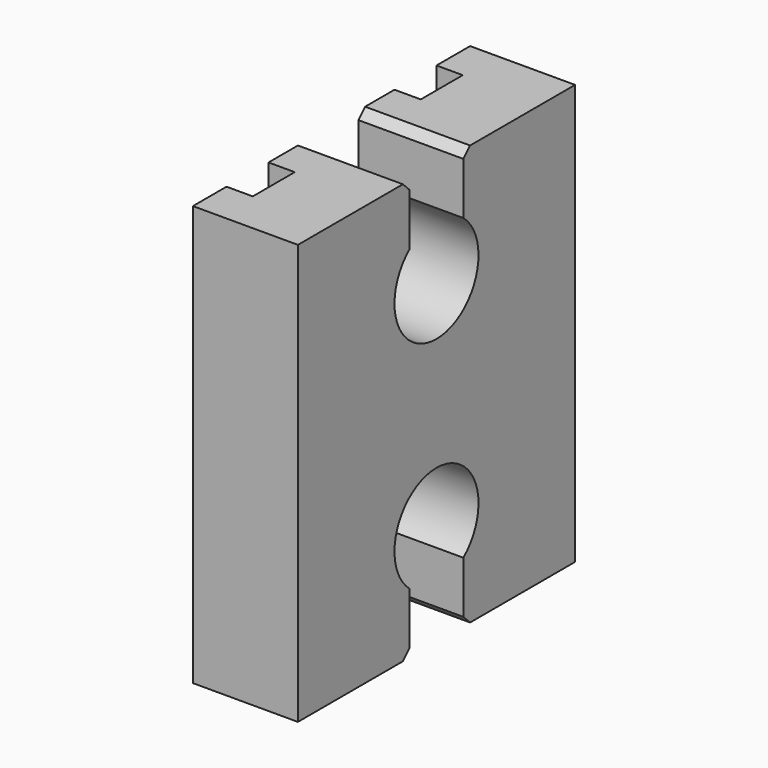
from build123d import *

# Parameters (mm, degrees)
F1_DEPTH = 50.8
F3_DEPTH = 25.4
F7_SIZE  = 1.016


with BuildPart() as f1:
    # F0 (on Top) → F1 (new body)
    with BuildSketch(Plane.XY):
        Polygon((-12.7, -15.875), (-12.7, -20.955), (0, -20.955), (0, 20.955), (-12.7, 20.955), (-12.7, 15.875), (-9.525, 15.875), (-9.525, 9.525), (-12.7, 9.525), (-12.7, -9.525), (-9.525, -9.525), (-9.525, -15.875), align=None)
    extrude(amount=F1_DEPTH)

    # F2 (on face) → F3 (cut)
    with BuildSketch(Plane.YZ):
        with BuildLine():
            Line((-4.064, 7.3128193311), (-4.064, 0))
            Line((-4.064, 0), (4.064, 0))
            Line((4.064, 0), (4.064, 7.3128193311))
            ThreePointArc((4.064, 7.3128193311), (0, 18.542), (-4.064, 7.3128193311))
        make_face()
    extrude(amount=-F3_DEPTH, mode=Mode.SUBTRACT)

    # F6: F1 across plane


with BuildPart() as f1_1:
    add(f1.part)
    add(f1.part.mirror(Plane(origin=(-5.8559647303, -12.4897385892, 25.4), x_dir=(1, 0, 0), z_dir=(0, 0, -1))), mode=Mode.INTERSECT)

    # F7
    f7_edges = [f1_1.edges().sort_by_distance(p)[0] for p in [
        (-6.35, -4.064, 50.8),
        (-6.35, 4.064, 50.8),
        (-6.35, 4.064, 0),
        (-6.35, -4.064, 0),
    ]]
    chamfer(f7_edges, length=F7_SIZE)


solid = f1_1.part
